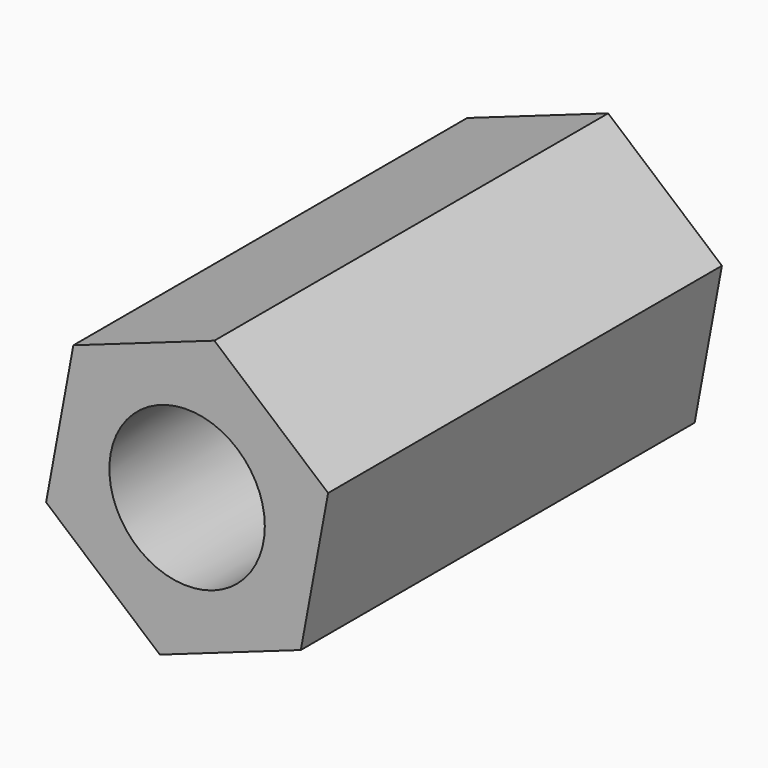
from build123d import *

# Parameters (mm, degrees)
F1_DEPTH = 11.4
F3_R     = 3.6
F2_R     = 3.75


with BuildPart() as f1:
    # F0 (on Front) → F1 (new body, symmetric)
    with BuildSketch(Plane.XZ):
        Polygon((-1.262916, -6.812125), (5.268015, -4.49978), (6.530931, 2.312345), (1.262916, 6.812125), (-5.268015, 4.49978), (-6.530931, -2.312345), align=None)
    extrude(amount=F1_DEPTH, both=True)

    # F3 (on face) → F4 section 0
    with BuildSketch(Plane.XZ.offset(11.4)):
        Circle(F3_R)
    # F2 (on face) → F4 section 1
    with BuildSketch(Plane(origin=(0, 11.4, 0), x_dir=(-1, 0, 0), z_dir=(0, 1, 0))):
        Circle(F2_R)
    loft(mode=Mode.SUBTRACT)


solid = f1.part
